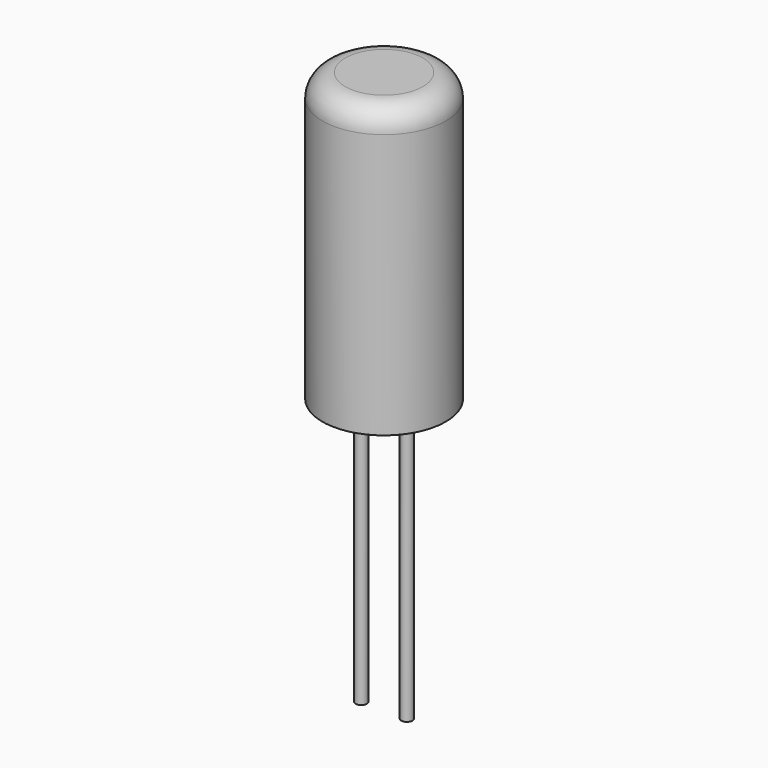
from build123d import *

# Parameters (mm, degrees)
F0_R     = 2.7
F1_DEPTH = 12.6
F2_R     = 1
F3_R     = 0.25
F4_DEPTH = 12


with BuildPart() as f1:
    # F0 (on Top) → F1 (new body)
    with BuildSketch(Plane.XY):
        Circle(F0_R)
    extrude(amount=F1_DEPTH)

    # F2
    f2_edges = [f1.edges().sort_by_distance(p)[0] for p in [
        (-2.7, 0, 12.6),
    ]]
    fillet(f2_edges, radius=F2_R)

    # F3 (on Top) → F4 (join)
    with BuildSketch(Plane.XY):
        with Locations((-1, 0)):
            Circle(F3_R)
        with Locations((1, 0)):
            Circle(F3_R)
    extrude(amount=-F4_DEPTH)


solid = f1.part
